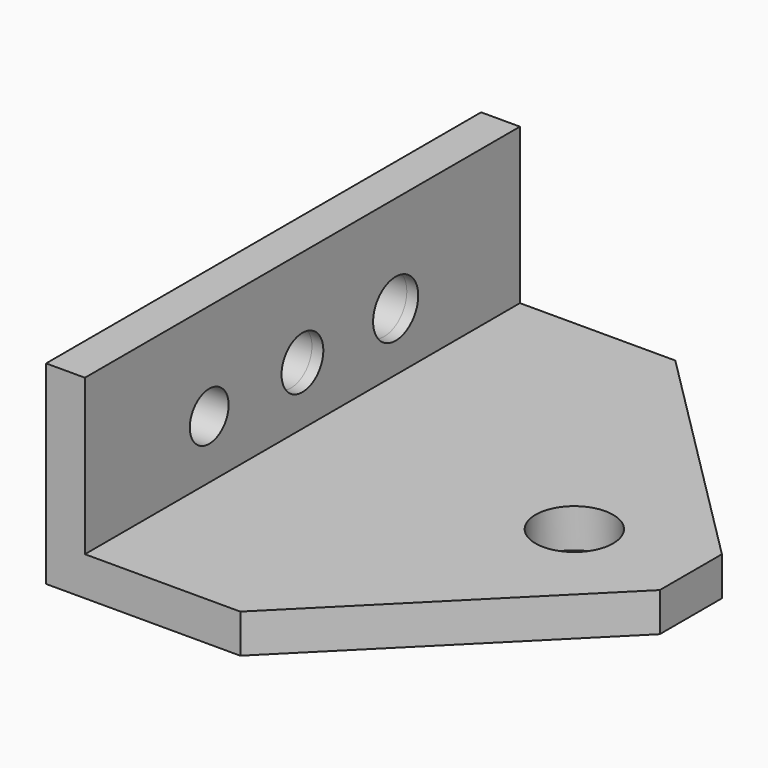
from build123d import *

# Parameters (mm, degrees)
F0_W     = 63.5
F0_H     = 6.35
F1_DEPTH = 44.45
F2_SIZE  = 38.1
F3_SIZE  = 38.1
F4_R     = 4.2729711543
F4_R_2   = 4.6114221179
F4_R_3   = 3.96875
F5_DEPTH = 127
F6_R     = 6.35
F7_DEPTH = 127


with BuildPart() as f1:
    # F0 (on Front) → F1 (new body, symmetric)
    with BuildSketch(Plane.XZ):
        Polygon((1.8653165565, 15.875), (-4.4846834435, 15.875), (-4.4846834435, -15.875), (1.8653165565, -15.875), (1.8653165565, -9.525), align=None)
        with Locations((33.6153165565, -12.7)):
            Rectangle(F0_W, F0_H)
    extrude(amount=F1_DEPTH, both=True)

    # F2
    f2_edges = [f1.edges().sort_by_distance(p)[0] for p in [
        (65.365317, 44.45, -12.7),
    ]]
    chamfer(f2_edges, length=F2_SIZE)

    # F3
    f3_edges = [f1.edges().sort_by_distance(p)[0] for p in [
        (65.365317, -44.45, -12.7),
    ]]
    chamfer(f3_edges, length=F3_SIZE)

    # F4 (on Right) → F5 (cut, symmetric)
    with BuildSketch(Plane.YZ):
        Circle(F4_R)
        with Locations((19.05, 0)):
            Circle(F4_R_2)
        with Locations((-19.05, 0)):
            Circle(F4_R_3)
    extrude(amount=F5_DEPTH, both=True, mode=Mode.SUBTRACT)

    # F6 (on Top) → F7 (cut, symmetric)
    with BuildSketch(Plane.XY):
        with Locations((46.3153165565, 0)):
            Circle(F6_R)
    extrude(amount=F7_DEPTH, both=True, mode=Mode.SUBTRACT)


solid = f1.part
